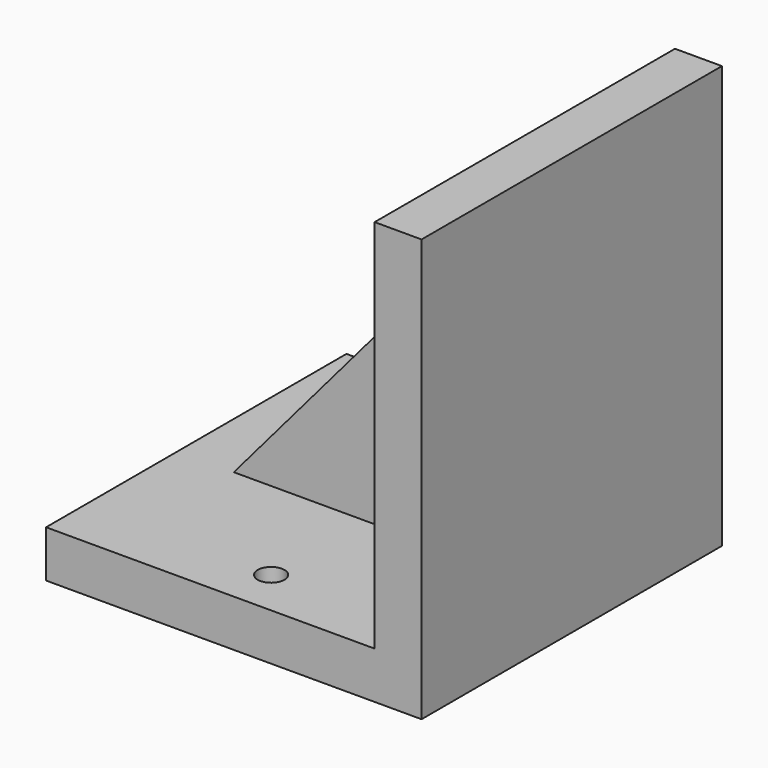
from build123d import *

# Parameters (mm, degrees)
F1_DEPTH = 25.4
F2_DEPTH = 3.175
F3_R     = 1.811143
F4_DEPTH = 25.4


with BuildPart() as f1:
    # F0 (on Front) → F1 (new body, symmetric)
    with BuildSketch(Plane.XZ):
        Polygon((-38.864661, 19.945657), (-46.484661, 19.945657), (-46.484661, 13.595657), (4.315339, 13.595657), (4.315339, 19.945657), (-2.034661, 19.945657), align=None)
        Polygon((-2.034661, 63.125657), (-2.034661, 19.945657), (4.315339, 19.945657), (4.315339, 70.745657), (-2.034661, 70.745657), align=None)
    extrude(amount=F1_DEPTH, both=True)

    # F0 (on Front) → F2 (join, symmetric)
    with BuildSketch(Plane.XZ):
        Polygon((-38.864661, 19.945657), (-46.484661, 19.945657), (-46.484661, 13.595657), (4.315339, 13.595657), (4.315339, 19.945657), (-2.034661, 19.945657), align=None)
        Polygon((-2.034661, 63.125657), (-38.864661, 19.945657), (-2.034661, 19.945657), align=None)
        Polygon((-2.034661, 63.125657), (-2.034661, 19.945657), (4.315339, 19.945657), (4.315339, 70.745657), (-2.034661, 70.745657), align=None)
    extrude(amount=F2_DEPTH, both=True)

    # F3 (on face) → F4 (cut)
    with BuildSketch(Plane.XY.offset(19.945657)):
        with Locations((-21.084661, 19.05)):
            Circle(F3_R)
        with Locations((-21.115254, -19.049988)):
            Circle(F3_R)
    extrude(amount=-F4_DEPTH, mode=Mode.SUBTRACT)


solid = f1.part
